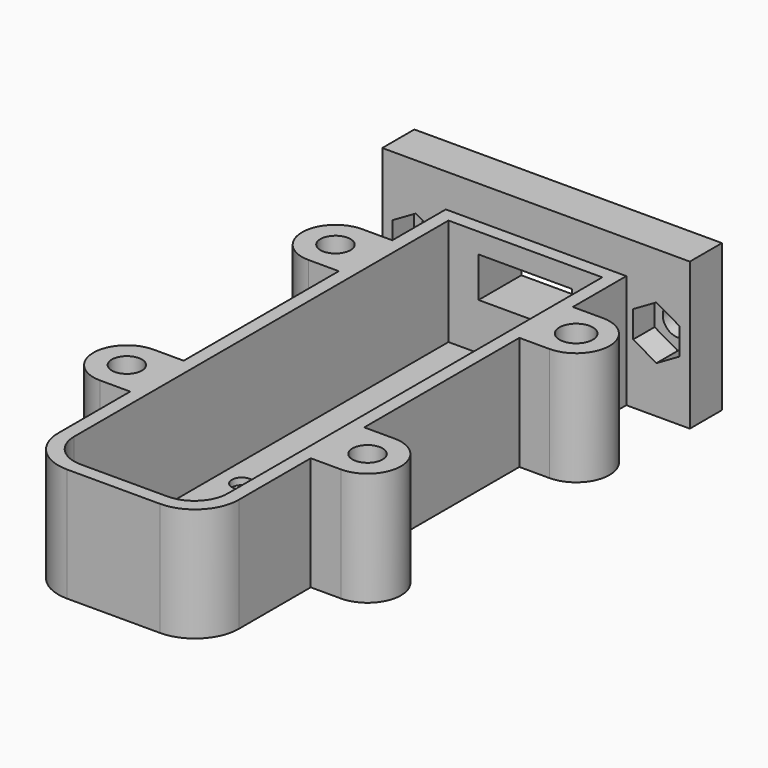
from build123d import *

# Parameters (mm, degrees)
PAD018_DEPTH            = 16
PAD019_DEPTH            = 1
SKETCH049_R             = 6
SKETCH049_R_2           = 1.5
POCKET012_DEPTH         = 5
SKETCH050_R             = 2.5
SKETCH050_W             = 6
SKETCH050_H             = 5
POCKET013_DEPTH         = 2
SKETCH051_R             = 2.25
SKETCH051_R_2           = 2.5
PAD020_DEPTH            = 17
SKETCH053_W             = 46
SKETCH053_H             = 22
PAD021_DEPTH            = 6
SKETCH054_R             = 2.25
POCKET015_DEPTH         = 8
POCKET016_DEPTH         = 4
SKETCH065_W             = 14
SKETCH065_H             = 6
POCKET023_DEPTH         = 8
POCKET080_DEPTH         = 4
BODY007_PLACEMENT_ANGLE = 180


with BuildPart() as part:
    # Sketch046 → Pad018 (new body)
    with BuildSketch(Plane.XY):
        with BuildLine():
            Line((-13.5, 0), (-13.5, -72.44))
            ThreePointArc((-13.5, -72.44), (-11.57862, -77.07862), (-6.94, -79))
            Line((-6.94, -79), (6.94, -79))
            ThreePointArc((6.94, -79), (11.57862, -77.07862), (13.5, -72.44))
            Line((13.5, -72.44), (13.5, 0))
            Line((13.5, 0), (-13.5, 0))
        make_face()
        with BuildLine():
            Line((11.5, -2), (11.5, -72))
            ThreePointArc((6.5, -77), (10.035534, -75.535534), (11.5, -72))
            Line((6.5, -77), (-6.5, -77))
            ThreePointArc((-11.5, -72), (-10.035534, -75.535534), (-6.5, -77))
            Line((-11.5, -72), (-11.5, -2))
            Line((-11.5, -2), (11.5, -2))
        make_face(mode=Mode.SUBTRACT)
    extrude(amount=PAD018_DEPTH)

    # Sketch047 (on Face14 of Pad018) → Pad019 (join)
    with BuildSketch(Plane.XY.offset(16)):
        with BuildLine():
            Line((-13.5, 0), (13.5, 0))
            Line((13.5, 0), (13.5, -72.44))
            ThreePointArc((6.94, -79), (11.57862, -77.07862), (13.5, -72.44))
            Line((6.94, -79), (-6.94, -79))
            ThreePointArc((-13.5, -72.44), (-11.57862, -77.07862), (-6.94, -79))
            Line((-13.5, -72.44), (-13.5, 0))
        make_face()
    extrude(amount=PAD019_DEPTH)

    # Sketch049 → Pocket012 (cut)
    with BuildSketch(Plane.XY.offset(17)):
        with Locations((0, -65.5)):
            Circle(SKETCH049_R)
        with Locations((8, -45)):
            Circle(SKETCH049_R_2)
        with Locations((-8, -45)):
            Circle(SKETCH049_R_2)
    extrude(amount=-POCKET012_DEPTH, mode=Mode.SUBTRACT)

    # Sketch050 (on Face21 of Pocket012) → Pocket013 (cut)
    with BuildSketch(Plane(origin=(0, 0, 16), x_dir=(1, 0, 0), z_dir=(0, 0, -1))):
        with Locations((0, 54)):
            Circle(SKETCH050_R)
        with Locations((0, 33.5)):
            Rectangle(SKETCH050_W, SKETCH050_H)
    extrude(amount=-POCKET013_DEPTH, mode=Mode.SUBTRACT)

    # Sketch051 (on Face17 of Pocket013) → Pad020 (join)
    with BuildSketch(Plane.XY.offset(17)):
        with BuildLine():
            Line((-13, -49), (-13, -59))
            Line((-13, -59), (-18, -59))
            ThreePointArc((-18, -49), (-23.000001, -54), (-18, -59))
            Line((-13, -49), (-18, -49))
        make_face()
        with Locations((-18.000001, -54)):
            Circle(SKETCH051_R, mode=Mode.SUBTRACT)
        with BuildLine():
            Line((13, -49), (13, -59))
            Line((13, -59), (18, -59))
            ThreePointArc((18, -59), (23, -54), (18, -49))
            Line((13, -49), (18, -49))
        make_face()
        with Locations((18, -54)):
            Circle(SKETCH051_R, mode=Mode.SUBTRACT)
        with BuildLine():
            Line((13, -10), (13, -20))
            Line((13, -20), (18, -20))
            ThreePointArc((18, -20), (23, -15), (18, -10))
            Line((13, -10), (18, -10))
        make_face()
        with Locations((18, -15)):
            Circle(SKETCH051_R, mode=Mode.SUBTRACT)
        with BuildLine():
            Line((-13, -10), (-13, -20))
            Line((-13, -20), (-18, -20))
            ThreePointArc((-18, -10), (-22.999995, -15), (-18, -20))
            Line((-13, -10), (-18, -10))
        make_face()
        with Locations((-17.999995, -15)):
            Circle(SKETCH051_R_2, mode=Mode.SUBTRACT)
    extrude(amount=-PAD020_DEPTH)

    # Sketch053 (on Face5 of Pad020) → Pad021 (join)
    with BuildSketch(Plane(origin=(0, 0, 0), x_dir=(-1, 0, 0), z_dir=(0, 1, 0))):
        with Locations((0, 6)):
            Rectangle(SKETCH053_W, SKETCH053_H)
    extrude(amount=PAD021_DEPTH)

    # Sketch054 (on Face64 of Pad021) → Pocket015 (cut)
    with BuildSketch(Plane(origin=(0, 6, 0), x_dir=(-1, 0, 0), z_dir=(0, 1, 0))):
        with Locations((-18, 6)):
            Circle(SKETCH054_R)
        with Locations((18, 6)):
            Circle(SKETCH054_R)
    extrude(amount=-POCKET015_DEPTH, mode=Mode.SUBTRACT)

    # Sketch055 (on Face5 of Pocket015) → Pocket016 (cut)
    with BuildSketch(Plane.XZ):
        Polygon((-14.535898, 4), (-14.535898, 8), (-18, 10), (-21.464102, 8), (-21.464102, 4), (-18, 2), align=None)
        Polygon((21.464102, 4), (21.464102, 8), (18, 10), (14.535898, 8), (14.535898, 4), (18, 2), align=None)
    extrude(amount=-POCKET016_DEPTH, mode=Mode.SUBTRACT)

    # Sketch065 (on Face76 of Pocket016) → Pocket023 (cut)
    with BuildSketch(Plane(origin=(0, 6, 0), x_dir=(-1, 0, 0), z_dir=(0, 1, 0))):
        with Locations((0, 6)):
            Rectangle(SKETCH065_W, SKETCH065_H)
    extrude(amount=-POCKET023_DEPTH, mode=Mode.SUBTRACT)

    # Sketch056 (on Face86 of Pocket023) → Pocket080 (cut)
    with BuildSketch(Plane.XY.offset(17)):
        Polygon((-14.535898, -56), (-14.535898, -52), (-18, -50), (-21.464102, -52), (-21.464102, -56), (-18, -58), align=None)
        Polygon((21.464102, -56), (21.464102, -52), (18, -50), (14.535898, -52), (14.535898, -56), (18, -58), align=None)
        Polygon((21.464102, -17), (21.464102, -13), (18, -11), (14.535898, -13), (14.535898, -17), (18, -19), align=None)
        Polygon((-14.535898, -17), (-14.535898, -13), (-18, -11), (-21.464102, -13), (-21.464102, -17), (-18, -19), align=None)
    extrude(amount=-POCKET080_DEPTH, mode=Mode.SUBTRACT)


with BuildPart() as part_1:
    # Body007 placement: moved
    add(part.part.moved(Location((0, -40, 3))).rotate(Axis((0, -40, 3), (0, 1, 0)), BODY007_PLACEMENT_ANGLE))


solid = part_1.part
